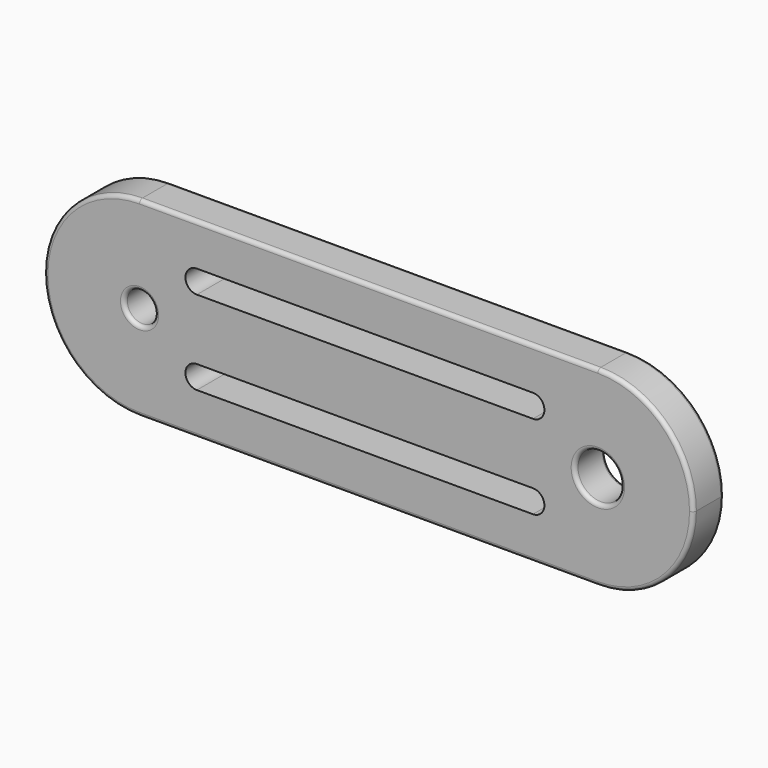
from build123d import *

# Parameters (mm, degrees)
F0_R     = 2
F1_DEPTH = 5
F2_R     = 0.5
F3_W     = 44
F3_H     = 3
F4_DEPTH = 5.001


with BuildPart() as f1:
    # F0 (on Front) → F1 (new body)
    with BuildSketch(Plane.XZ):
        with BuildLine():
            Line((-17.5, 0), (0, 0))
            Line((0, 0), (17.5, 0))
            ThreePointArc((17.5, 0), (21.161165, 8.838835), (30, 12.5))
            Line((30, 12.5), (-30, 12.5))
            ThreePointArc((-30, 12.5), (-21.161165, 8.838835), (-17.5, 0))
        make_face()
        with BuildLine():
            Line((17.5, 0), (0, 0))
            Line((0, 0), (-17.5, 0))
            ThreePointArc((-17.5, 0), (-21.161165, -8.838835), (-30, -12.5))
            Line((-30, -12.5), (30, -12.5))
            ThreePointArc((30, -12.5), (21.161165, -8.838835), (17.5, 0))
        make_face()
        with BuildLine():
            ThreePointArc((30, 12.5), (21.161165, 8.838835), (17.5, 0))
            ThreePointArc((17.5, 0), (21.161165, -8.838835), (30, -12.5))
            ThreePointArc((30, -12.5), (38.838835, -8.838835), (42.5, 0))
            ThreePointArc((42.5, 0), (38.838835, 8.838835), (30, 12.5))
        make_face()
        with BuildLine():
            ThreePointArc((33, 0), (30, -3), (27, 0))
            ThreePointArc((27, 0), (30, 3), (33, 0))
        make_face(mode=Mode.SUBTRACT)
        with BuildLine():
            ThreePointArc((-30, -12.5), (-21.161165, -8.838835), (-17.5, 0))
            ThreePointArc((-17.5, 0), (-21.161165, 8.838835), (-30, 12.5))
            ThreePointArc((-30, 12.5), (-42.5, 0), (-30, -12.5))
        make_face()
        with Locations((-30, 0)):
            Circle(F0_R, mode=Mode.SUBTRACT)
    extrude(amount=F1_DEPTH)

    # F2
    f2_edges = [f1.edges().sort_by_distance(p)[0] for p in [
        (0, -5, 12.5),
        (-42.5, -5, 0),
        (0, -5, -12.5),
        (42.5, -5, 0),
        (33, -5, 0),
        (-32, -5, 0),
        (0, 0, 12.5),
        (-42.5, 0, 0),
        (0, 0, -12.5),
        (42.5, 0, 0),
        (33, 0, 0),
        (-32, 0, 0),
    ]]
    fillet(f2_edges, radius=F2_R)

    # F3 (on face) → F4 (cut, through all)
    with BuildSketch(Plane.XZ.offset(5)):
        with Locations((-0.5, 5.5)):
            Rectangle(F3_W, F3_H)
        with BuildLine():
            Line((-22.5, 4), (-22.5, 7))
            ThreePointArc((-22.5, 7), (-24, 5.5), (-22.5, 4))
        make_face()
        with BuildLine():
            ThreePointArc((21.5, 4), (23, 5.5), (21.5, 7))
            Line((21.5, 7), (21.5, 4))
        make_face()
        with BuildLine():
            ThreePointArc((21.5, -7), (23, -5.5), (21.5, -4))
            Line((21.5, -4), (21.5, -7))
        make_face()
        with Locations((-0.5, -5.5)):
            Rectangle(F3_W, F3_H)
        with BuildLine():
            Line((-22.5, -7), (-22.5, -4))
            ThreePointArc((-22.5, -4), (-24, -5.5), (-22.5, -7))
        make_face()
    extrude(amount=-F4_DEPTH, mode=Mode.SUBTRACT)


solid = f1.part
